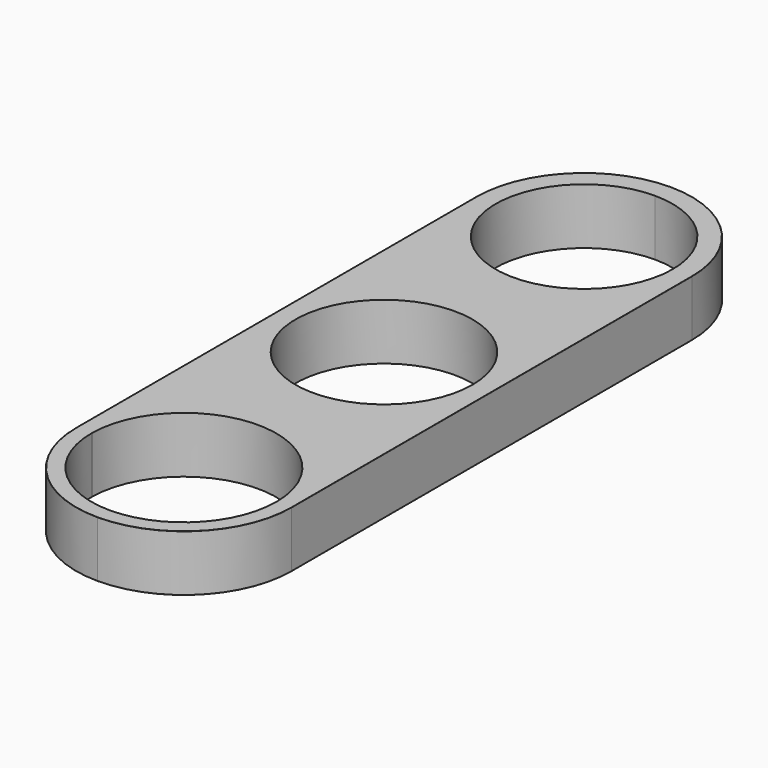
from build123d import *

# Parameters (mm, degrees)
F1_DEPTH = 7.3
F2_R     = 0.0241421356


with BuildPart() as f1:
    # F0 (on Top) → F1 (new body)
    with BuildSketch(Plane.XY):
        with BuildLine():
            ThreePointArc((14, 32.5), (9.8994949366, 42.3994949366), (0, 46.5))
            ThreePointArc((0, 46.5), (-9.8994949366, 42.3994949366), (-14, 32.5))
            Line((-14, 32.5), (-14, -32.5))
            Line((-14, -32.5), (-12.0277635282, -32.5))
            ThreePointArc((-12.0277635282, -32.5), (-12.0273670809, -32.4023445279), (-12.0261777652, -32.3046954935))
            ThreePointArc((-12.0261777652, -32.3046954935), (0, -20.4722364718), (12.0261777652, -32.3046954935))
            ThreePointArc((12.0261777652, -32.3046954935), (12.0273670809, -32.4023445279), (12.0277635282, -32.5))
            ThreePointArc((12.0277635282, -32.5), (8.5049131533, -41.0049131533), (0, -44.5277635282))
            Line((0, -44.5277635282), (0, -46.5))
            ThreePointArc((0, -46.5), (9.8994949366, -42.3994949366), (14, -32.5))
            Line((14, -32.5), (14, 32.5))
        make_face()
        with BuildLine():
            ThreePointArc((-11.5, 0), (0, 11.5), (11.5, 0))
            ThreePointArc((11.5, 0), (0, -11.5), (-11.5, 0))
        make_face(mode=Mode.SUBTRACT)
        with BuildLine():
            ThreePointArc((11.5, 32.5), (-8.1317279836, 24.3682720164), (0, 44))
            ThreePointArc((0, 44), (8.1317279836, 40.6317279836), (11.5, 32.5))
        make_face(mode=Mode.SUBTRACT)
        with BuildLine():
            Line((-12.0277635282, -32.5), (-14, -32.5))
            ThreePointArc((-14, -32.5), (-9.8994949366, -42.3994949366), (0, -46.5))
            Line((0, -46.5), (0, -44.5277635282))
            ThreePointArc((0, -44.5277635282), (-8.5049131533, -41.0049131533), (-12.0277635282, -32.5))
        make_face()
    extrude(amount=F1_DEPTH)

    # F2
    f2_edges = [f1.edges().sort_by_distance(p)[0] for p in [
        (0, 46.5, 7.3),
        (-14, 0, 7.3),
        (0, -46.5, 7.3),
        (14, 0, 7.3),
        (0, 46.5, 0),
        (14, 0, 0),
        (-14, 0, 0),
        (0, -46.5, 0),
    ]]
    fillet(f2_edges, radius=F2_R)


solid = f1.part
